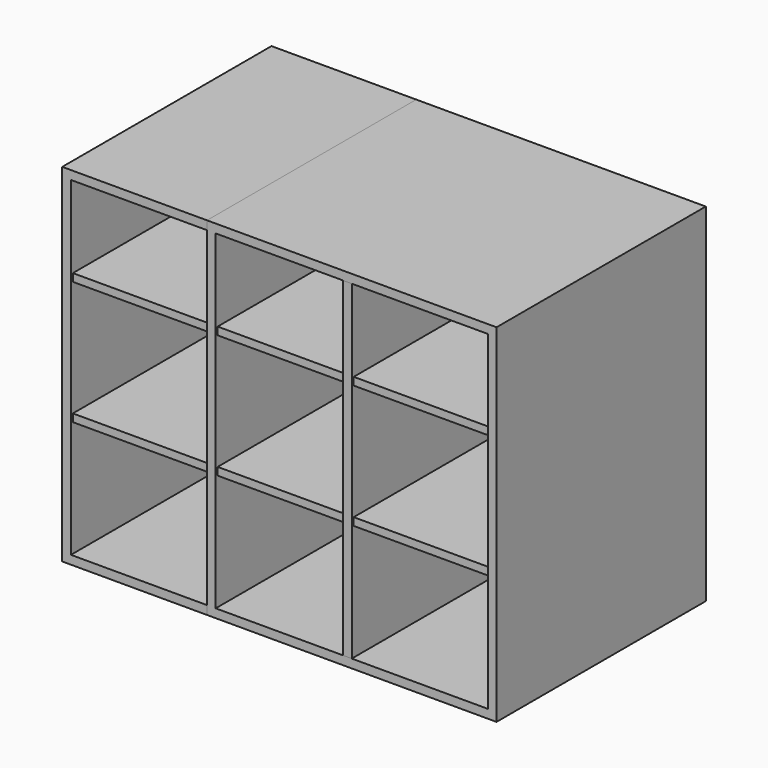
from build123d import *

# Parameters (mm, degrees)
F0_W          = 600
F0_H          = 720
F1_DEPTH      = 535
F1_DEPTH_BACK = 7
F0_W_2        = 564
F0_H_2        = 16
F0_W_3        = 563.346566
F2_DEPTH      = 530


with BuildPart() as f1:
    # F0 (on Front) → F1 (new body, two sides)
    with BuildSketch(Plane.XZ) as f1_sk:
        with Locations((1426.630068, -914.310974)):
            Rectangle(F0_W, F0_H)
        Polygon((1144.630068, -744.310974), (1144.630068, -572.310974), (1708.630068, -572.310974), (1708.630068, -744.310974), (1708.630068, -760.310974), (1708.630068, -1256.310974), (1144.630068, -1256.310974), (1144.630068, -1016.310974), (1144.630068, -1000.310974), (1144.630068, -760.310974), align=None, mode=Mode.SUBTRACT)
    extrude(amount=F1_DEPTH)
    extrude(f1_sk.sketch, amount=-F1_DEPTH_BACK)

    # F0 (on Front) → F2 (join)
    with BuildSketch(Plane.XZ):
        with Locations((1426.630068, -752.310974)):
            Rectangle(F0_W_2, F0_H_2)
        with Locations((1426.303351, -1008.310974)):
            Rectangle(F0_W_3, F0_H_2)
    extrude(amount=F2_DEPTH)


with BuildPart() as f3_1:
    # F3: copy of F1
    add(f1.part.moved(Location((300, 0, 0))))


solid = Compound([f1.part, f3_1.part])
